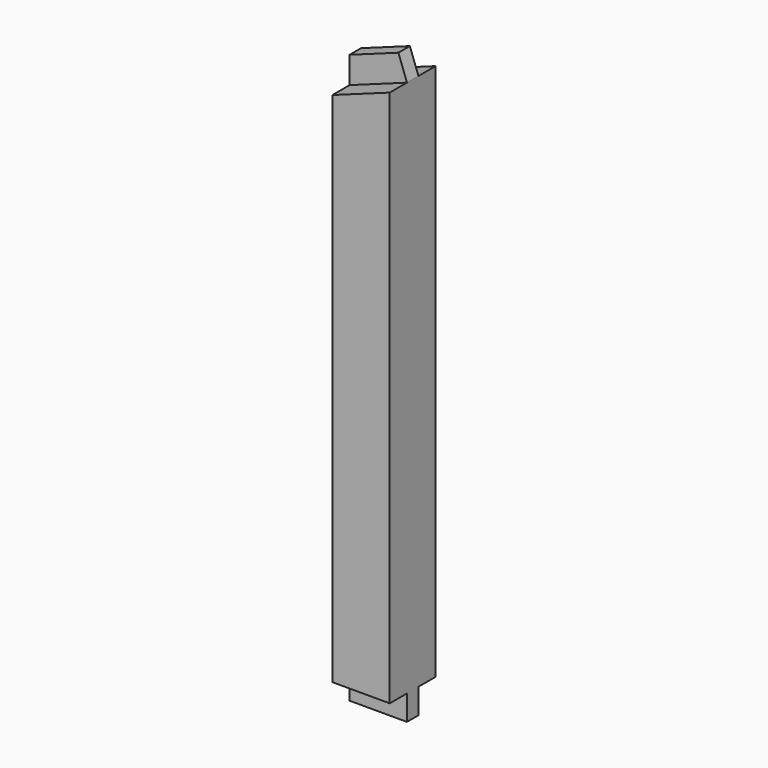
from build123d import *

# Parameters (mm, degrees)
F1_DEPTH = 101.6
F0_W     = 203.2
F0_H     = 88.9
F2_DEPTH = 25.4


with BuildPart() as f1:
    # F0 (on Front) → F1 (new body, symmetric)
    with BuildSketch(Plane.XZ):
        Polygon((101.6, -1003.3), (101.6, 901.7), (-101.6, 827.9892), (-101.6, -1003.3), align=None)
    extrude(amount=F1_DEPTH, both=True)

    # F0 (on Front) → F2 (join, symmetric)
    with BuildSketch(Plane.XZ):
        Polygon((71.284475, 985.2714), (-101.6, 922.557557), (-101.6, 827.9892), (101.6, 901.7), align=None)
        with Locations((0, -1047.75)):
            Rectangle(F0_W, F0_H)
    extrude(amount=F2_DEPTH, both=True)


solid = f1.part
